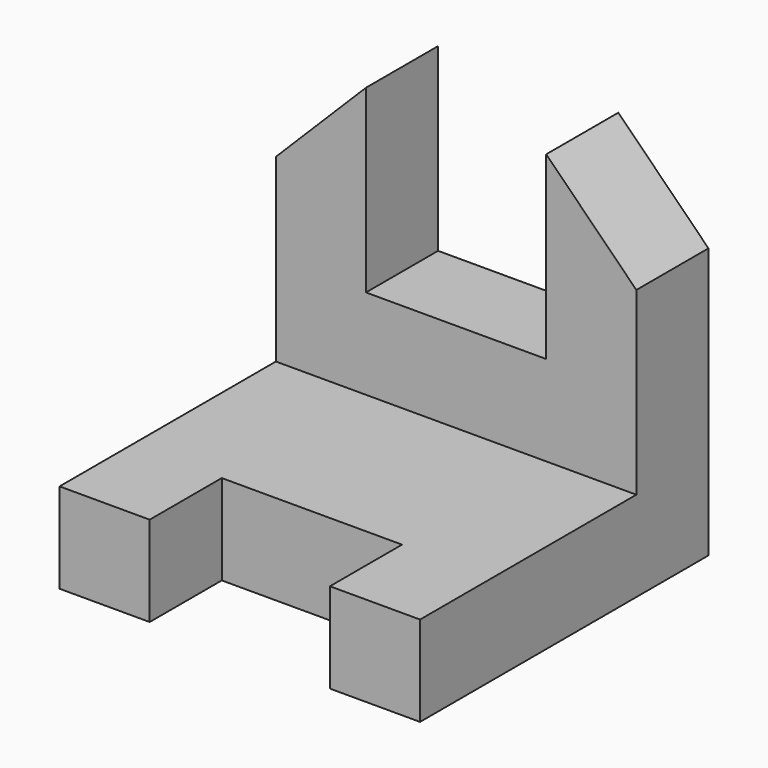
from build123d import *

# Parameters (mm, degrees)
F0_W     = 101.6
F0_H     = 101.6
F1_DEPTH = 101.6
F2_W     = 50.8
F2_H     = 25.4
F3_DEPTH = 25.4
F4_W     = 101.6
F4_H     = 76.2
F5_DEPTH = 76.2
F7_DEPTH = 25.4
F8_W     = 50.8
F8_H     = 50.8
F9_DEPTH = 25.4


with BuildPart() as f1:
    # F0 (on Front) → F1 (new body)
    with BuildSketch(Plane.XZ):
        with Locations((-5.817418, 8.951449)):
            Rectangle(F0_W, F0_H)
    extrude(amount=F1_DEPTH)

    # F2 (on face) → F3 (cut)
    with BuildSketch(Plane.XZ.offset(101.6)):
        with Locations((-5.817418, -29.148551)):
            Rectangle(F2_W, F2_H)
    extrude(amount=-F3_DEPTH, mode=Mode.SUBTRACT)

    # F4 (on face) → F5 (cut)
    with BuildSketch(Plane.XZ.offset(101.6)):
        with Locations((-5.817418, 21.651449)):
            Rectangle(F4_W, F4_H)
    extrude(amount=-F5_DEPTH, mode=Mode.SUBTRACT)

    # F6 (on face) → F7 (cut)
    with BuildSketch(Plane.XZ.offset(25.4)):
        Polygon((44.982582, 59.751449), (19.582582, 59.751449), (44.982582, 34.351449), align=None)
        Polygon((-31.217418, 59.751449), (-56.617418, 59.751449), (-56.617418, 34.351449), align=None)
    extrude(amount=-F7_DEPTH, mode=Mode.SUBTRACT)

    # F8 (on face) → F9 (cut)
    with BuildSketch(Plane.XZ.offset(25.4)):
        with Locations((-5.817418, 34.351449)):
            Rectangle(F8_W, F8_H)
    extrude(amount=-F9_DEPTH, mode=Mode.SUBTRACT)


solid = f1.part
